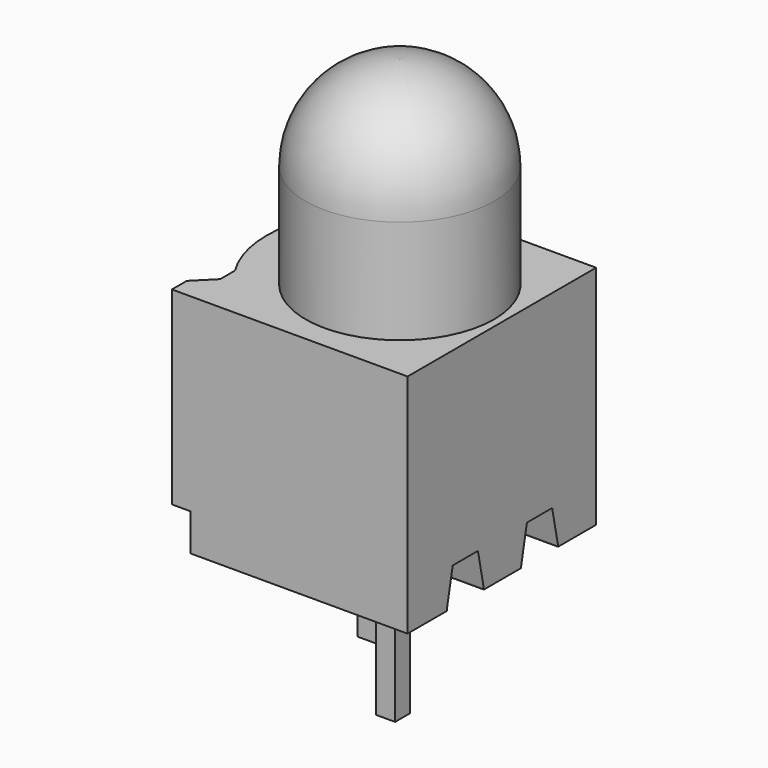
from build123d import *

# Parameters (mm, degrees)
BOX_W            = 0.508
BOX_H            = 0.508
BOX_DEPTH        = 6
BOX001_W         = 0.508
BOX001_H         = 0.51
BOX001_DEPTH     = 6
BOX002_W         = 10
BOX002_H         = 1.25
BOX002_DEPTH     = 1
CHAMFER_SIZE2    = 0.2
CHAMFER_SIZE     = 0.98
CHAMFER002_SIZE2 = 0.98
CHAMFER002_SIZE  = 0.2
BOX003_W         = 10
BOX003_H         = 1.25
BOX003_DEPTH     = 1
CHAMFER001_SIZE2 = 0.2
CHAMFER001_SIZE  = 0.98
CHAMFER003_SIZE2 = 0.98
CHAMFER003_SIZE  = 0.2
BOX004_W         = 2
BOX004_H         = 2
BOX004_DEPTH     = 10
PAD_DEPTH        = 6.1
CYLINDER_R       = 2.54
CYLINDER_DEPTH   = 5.43
FILLET_R         = 2.53


with BuildPart() as obj1:
    # Box → Box (new body)
    with BuildSketch(Plane(origin=(-0.255, -0.255, -3.3), x_dir=(1, 0, 0), z_dir=(0, 0, 1))):
        with Locations((0.254, 0.254)):
            Rectangle(BOX_W, BOX_H)
    extrude(amount=BOX_DEPTH)


with BuildPart() as cathode:
    # Box001 → Box001 (new body)
    with BuildSketch(Plane(origin=(2.285, -2.795, -3.3), x_dir=(1, 0, 0), z_dir=(0, 0, 1))):
        with Locations((0.254, 0.255)):
            Rectangle(BOX001_W, BOX001_H)
    extrude(amount=BOX001_DEPTH)


with BuildPart() as chamfer002:
    # Box002 → Box002 (new body)
    with BuildSketch(Plane(origin=(-5, -1.85, 0), x_dir=(1, 0, 0), z_dir=(0, 0, 1))):
        with Locations((5, 0.625)):
            Rectangle(BOX002_W, BOX002_H)
    extrude(amount=BOX002_DEPTH)

    # Chamfer
    chamfer_edges = [chamfer002.edges().sort_by_distance(p)[0] for p in [
        (0, -1.85, 1),
    ]]
    chamfer_side = chamfer002.faces().sort_by_distance((0, -1.85, 0.5))[0]
    chamfer(chamfer_edges, length=CHAMFER_SIZE, length2=CHAMFER_SIZE2, reference=chamfer_side)

    # Chamfer002
    chamfer002_edges = [chamfer002.edges().sort_by_distance(p)[0] for p in [
        (0, -0.6, 1),
    ]]
    chamfer002_side = chamfer002.faces().sort_by_distance((0, -1.125, 1))[0]
    chamfer(chamfer002_edges, length=CHAMFER002_SIZE, length2=CHAMFER002_SIZE2, reference=chamfer002_side)


with BuildPart() as chamfer002_1:
    # Chamfer002 placement: moved
    add(chamfer002.part.moved(Location((0, -1.27, 0))))


with BuildPart() as chamfer003:
    # Box003 → Box003 (new body)
    with BuildSketch(Plane(origin=(-5, 0.65, 0), x_dir=(1, 0, 0), z_dir=(0, 0, 1))):
        with Locations((5, 0.625)):
            Rectangle(BOX003_W, BOX003_H)
    extrude(amount=BOX003_DEPTH)

    # Chamfer001
    chamfer001_edges = [chamfer003.edges().sort_by_distance(p)[0] for p in [
        (0, 0.65, 1),
    ]]
    chamfer001_side = chamfer003.faces().sort_by_distance((0, 0.65, 0.5))[0]
    chamfer(chamfer001_edges, length=CHAMFER001_SIZE, length2=CHAMFER001_SIZE2, reference=chamfer001_side)

    # Chamfer003
    chamfer003_edges = [chamfer003.edges().sort_by_distance(p)[0] for p in [
        (0, 1.9, 1),
    ]]
    chamfer003_side = chamfer003.faces().sort_by_distance((0, 1.375, 1))[0]
    chamfer(chamfer003_edges, length=CHAMFER003_SIZE, length2=CHAMFER003_SIZE2, reference=chamfer003_side)


with BuildPart() as chamfer003_1:
    # Chamfer003 placement: moved
    add(chamfer003.part.moved(Location((0, -1.27, 0))))


with BuildPart() as kub002:
    # Box004 → Box004 (new body)
    with BuildSketch(Plane(origin=(-3.405, -5, -9), x_dir=(1, 0, 0), z_dir=(0, 0, 1))):
        with Locations((1, 1)):
            Rectangle(BOX004_W, BOX004_H)
    extrude(amount=BOX004_DEPTH)


with BuildPart() as cut002:
    # Sketch → Pad (new body)
    with BuildSketch(Plane.XY):
        with BuildLine():
            Line((-1.405, 0.41), (-1.405, 0.91))
            Line((-1.405, 0.91), (-1.905, 1.41))
            Line((-1.905, 1.41), (-1.905, 1.91))
            Line((-1.905, 1.91), (4.445, 1.91))
            Line((4.445, 1.91), (4.445, -4.44))
            Line((4.445, -4.44), (-1.905, -4.44))
            Line((-1.905, -4.44), (-1.905, -3.94))
            Line((-1.905, -3.94), (-1.405, -3.44))
            Line((-1.405, -3.44), (-1.405, -2.94))
            ThreePointArc((-1.405, 0.41), (-1.886145, -1.265), (-1.405, -2.94))
        make_face()
    extrude(amount=PAD_DEPTH)

    # Cut: cut Kub002
    add(kub002.part, mode=Mode.SUBTRACT)

    # Cut001: cut Chamfer003
    add(chamfer003_1.part, mode=Mode.SUBTRACT)

    # Cut002: cut Chamfer002
    add(chamfer002_1.part, mode=Mode.SUBTRACT)


with BuildPart() as fillet_body:
    # Cylinder → Cylinder (new body)
    with BuildSketch(Plane(origin=(1.7, -1.27, 6), x_dir=(1, 0, 0), z_dir=(0, 0, 1))):
        Circle(CYLINDER_R)
    extrude(amount=CYLINDER_DEPTH)

    # Fillet
    fillet_edges = [fillet_body.edges().sort_by_distance(p)[0] for p in [
        (-0.84, -1.27, 11.43),
    ]]
    fillet(fillet_edges, radius=FILLET_R)


solid = Compound([obj1.part, cathode.part, cut002.part, fillet_body.part])
